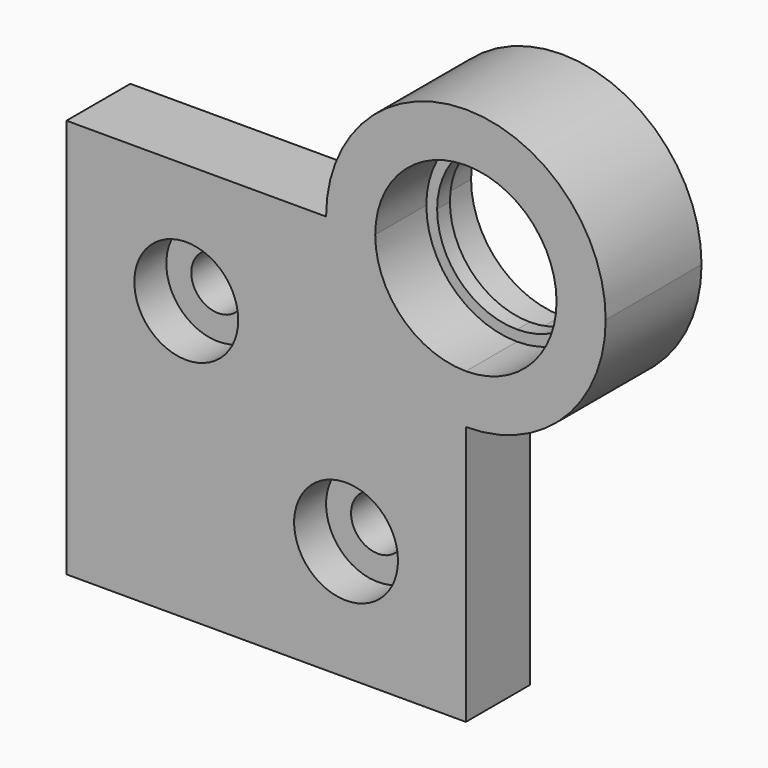
from build123d import *

# Parameters (mm, degrees)
F0_R          = 8.255
F1_DEPTH      = 12.7
F0_R_2        = 4.28625
F2_DEPTH      = 6.35
F3_DEPTH      = 12.7
F3_DEPTH_BACK = 6.35
F4_DEPTH      = 2.54


with BuildPart() as f1:
    # F0 (on Front) → F1 (new body)
    with BuildSketch(Plane.XZ):
        with BuildLine():
            ThreePointArc((0, -22.225), (-15.715448, -15.715448), (-22.225, 0))
            Line((-22.225, 0), (-63.5, 0))
            Line((-63.5, 0), (-63.5, -63.5))
            Line((-63.5, -63.5), (0, -63.5))
            Line((0, -63.5), (0, -22.225))
        make_face()
        with Locations((-19.05, -44.45)):
            Circle(F0_R, mode=Mode.SUBTRACT)
        with Locations((-44.45, -19.05)):
            Circle(F0_R, mode=Mode.SUBTRACT)
    extrude(amount=F1_DEPTH)

    # F0 (on Front) → F2 (join)
    with BuildSketch(Plane.XZ):
        with Locations((-44.45, -19.05)):
            Circle(F0_R)
        with Locations((-44.45, -19.05)):
            Circle(F0_R_2, mode=Mode.SUBTRACT)
        with Locations((-19.05, -44.45)):
            Circle(F0_R)
        with Locations((-19.05, -44.45)):
            Circle(F0_R_2, mode=Mode.SUBTRACT)
    extrude(amount=F2_DEPTH)

    # F0 (on Front) → F3 (join, two sides)
    with BuildSketch(Plane.XZ) as f3_sk:
        with BuildLine():
            ThreePointArc((-14.4145, 0), (0, 14.4145), (14.4145, 0))
            ThreePointArc((14.4145, 0), (10.192591, -10.192591), (0, -14.4145))
            Line((0, -14.4145), (0, -22.225))
            ThreePointArc((0, -22.225), (15.715448, -15.715448), (22.225, 0))
            ThreePointArc((22.225, 0), (0, 22.225), (-22.225, 0))
            Line((-22.225, 0), (-14.4145, 0))
        make_face()
        with BuildLine():
            ThreePointArc((0, -14.4145), (-10.192591, -10.192591), (-14.4145, 0))
            Line((-14.4145, 0), (-22.225, 0))
            ThreePointArc((-22.225, 0), (-15.715448, -15.715448), (0, -22.225))
            Line((0, -22.225), (0, -14.4145))
        make_face()
    extrude(amount=F3_DEPTH)
    extrude(f3_sk.sketch, amount=-F3_DEPTH_BACK)

    # F0 (on Front) → F4 (join)
    with BuildSketch(Plane.XZ):
        with BuildLine():
            ThreePointArc((0, -14.4145), (10.192591, -10.192591), (14.4145, 0))
            ThreePointArc((14.4145, 0), (0, 14.4145), (-14.4145, 0))
            Line((-14.4145, 0), (-12.7, 0))
            ThreePointArc((-12.7, 0), (0, 12.7), (12.7, 0))
            ThreePointArc((12.7, 0), (8.980256, -8.980256), (0, -12.7))
            Line((0, -12.7), (0, -14.4145))
        make_face()
        with BuildLine():
            Line((-12.7, 0), (-14.4145, 0))
            ThreePointArc((-14.4145, 0), (-10.192591, -10.192591), (0, -14.4145))
            Line((0, -14.4145), (0, -12.7))
            ThreePointArc((0, -12.7), (-8.980256, -8.980256), (-12.7, 0))
        make_face()
    extrude(amount=F4_DEPTH)


solid = f1.part
